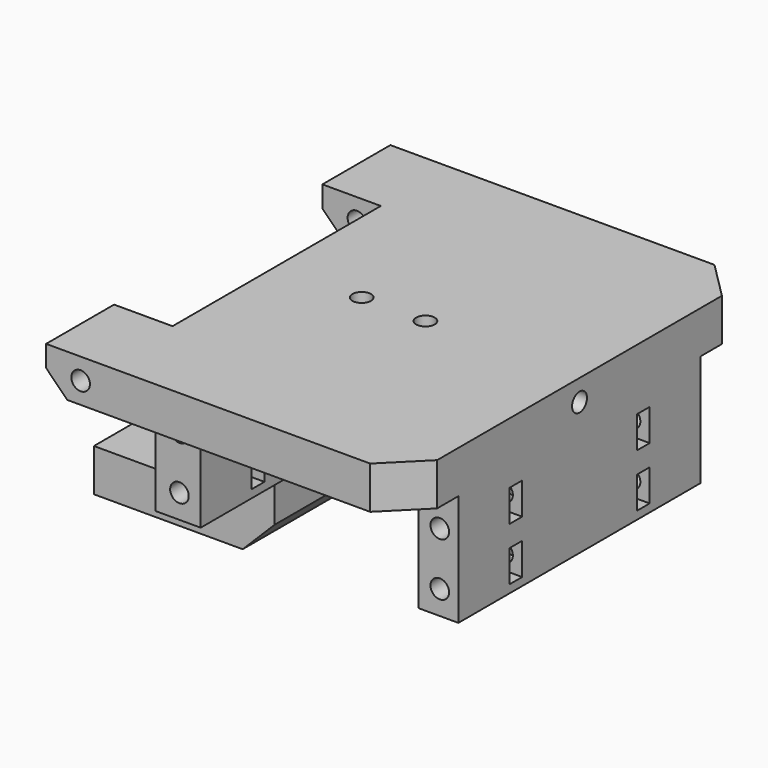
from build123d import *

# Parameters (mm, degrees)
BOX061_W                  = 15
BOX061_H                  = 100
BOX061_DEPTH              = 24
BOX060_W                  = 9
BOX060_H                  = 20
BOX060_DEPTH              = 38
CYLINDER059_R             = 1.75
CYLINDER059_DEPTH         = 36
CYLINDER058_R             = 1.75
CYLINDER058_DEPTH         = 36
PRISM_DEPTH               = 10
PRISM_ROLL_ANGLE          = 90.000052
PRISM_PITCH_ANGLE         = 59.999967
PRISM_PLACEMENT_ANGLE     = 90.000052
CYLINDER032_R             = 1.75
CYLINDER032_DEPTH         = 30
CYLINDER032_PITCH_ANGLE   = 90
CYLINDER030_R             = 1.75
CYLINDER030_DEPTH         = 24.5
CYLINDER030_PITCH_ANGLE   = 90
CYLINDER031_R             = 3
CYLINDER031_DEPTH         = 21.5
CYLINDER031_PITCH_ANGLE   = 90
FUSION027_PITCH_ANGLE     = -90
FUSION027_PLACEMENT_ANGLE = -180
FUSION024_PITCH_ANGLE     = -90
FUSION024_PLACEMENT_ANGLE = -180
FUSION025_PITCH_ANGLE     = -90
FUSION025_PLACEMENT_ANGLE = -180
BOX029_W                  = 3
BOX029_H                  = 74
BOX029_DEPTH              = 6
BOX029_PITCH_ANGLE        = -90
BOX029_PLACEMENT_ANGLE    = -180
BOX030_W                  = 3
BOX030_H                  = 74
BOX030_DEPTH              = 6
BOX030_PITCH_ANGLE        = -90
BOX030_PLACEMENT_ANGLE    = -180
FUSION026_PITCH_ANGLE     = -90
FUSION026_PLACEMENT_ANGLE = -180
FUSION028_ROLL_ANGLE      = -90
FUSION028_PLACEMENT_ANGLE = 90
BOX014_W                  = 34
BOX014_H                  = 21
BOX014_DEPTH              = 8
BOX015_W                  = 8
BOX015_H                  = 21
BOX015_DEPTH              = 42
CYLINDER025_R             = 1.75
CYLINDER025_DEPTH         = 100
CYLINDER025_ROLL_ANGLE    = -90
CYLINDER028_R             = 1.75
CYLINDER028_DEPTH         = 24.5
CYLINDER028_PITCH_ANGLE   = 90
CYLINDER029_R             = 3
CYLINDER029_DEPTH         = 21.5
CYLINDER029_PITCH_ANGLE   = 90
FUSION018_PITCH_ANGLE     = -90
FUSION018_PLACEMENT_ANGLE = -180
BOX024_W                  = 3
BOX024_H                  = 60
BOX024_DEPTH              = 6
BOX024_PITCH_ANGLE        = -90
BOX024_PLACEMENT_ANGLE    = -180
BOX025_W                  = 3
BOX025_H                  = 60
BOX025_DEPTH              = 6
BOX025_PITCH_ANGLE        = -90
BOX025_PLACEMENT_ANGLE    = -180
BOX022_W                  = 37
BOX022_H                  = 41
BOX022_DEPTH              = 25
BOX022_PITCH_ANGLE        = -90
BOX022_PLACEMENT_ANGLE    = -180
FUSION015_PITCH_ANGLE     = -90
FUSION015_PLACEMENT_ANGLE = -180
FUSION016_PITCH_ANGLE     = -90
FUSION016_PLACEMENT_ANGLE = -180
FUSION017_PITCH_ANGLE     = -90
FUSION017_PLACEMENT_ANGLE = -180
FUSION022_PITCH_ANGLE     = 90
FUSION022_PLACEMENT_ANGLE = 90
BOX059_W                  = 72
BOX059_H                  = 21
BOX059_DEPTH              = 24
BOX012_W                  = 16
BOX012_H                  = 49
BOX012_DEPTH              = 30
BOX011_W                  = 68
BOX011_H                  = 81
BOX011_DEPTH              = 29
CHAMFER007_SIZE           = 7
CHAMFER008_SIZE           = 6
CHAMFER011_SIZE           = 4


with BuildPart() as cube064:
    # Box061 → Box061 (new body)
    with BuildSketch(Plane(origin=(-51, -50, -30), x_dir=(1, 0, 0), z_dir=(0, 0, 1))):
        with Locations((7.5, 50)):
            Rectangle(BOX061_W, BOX061_H)
    extrude(amount=BOX061_DEPTH)


with BuildPart() as cube063:
    # Box060 → Box060 (new body)
    with BuildSketch(Plane(origin=(7, -10, -40), x_dir=(1, 0, 0), z_dir=(0, 0, 1))):
        with Locations((4.5, 10)):
            Rectangle(BOX060_W, BOX060_H)
    extrude(amount=BOX060_DEPTH)


with BuildPart() as cylinder154:
    # Cylinder059 → Cylinder059 (new body)
    with BuildSketch(Plane(origin=(-8, 0, -13), x_dir=(1, 0, 0), z_dir=(0, 0, 1))):
        Circle(CYLINDER059_R)
    extrude(amount=CYLINDER059_DEPTH)


with BuildPart() as fusion054:
    # Cylinder058 → Cylinder058 (new body)
    with BuildSketch(Plane(origin=(-20, 0, -13), x_dir=(1, 0, 0), z_dir=(0, 0, 1))):
        Circle(CYLINDER058_R)
    extrude(amount=CYLINDER058_DEPTH)

    # Fusion054: union Cylinder154
    add(cylinder154.part)


with BuildPart() as prism:
    # Prism → Prism (new body)
    with BuildSketch(Plane.XY):
        Polygon((3.3, 0), (1.65, 2.857884), (-1.65, 2.857884), (-3.3, 0), (-1.65, -2.857884), (1.65, -2.857884), align=None)
    extrude(amount=PRISM_DEPTH)


with BuildPart() as prism_1:
    # Prism roll: moved
    add(prism.part.rotate(Axis((0, 0, 0), (1, 0, 0)), PRISM_ROLL_ANGLE))


with BuildPart() as prism_2:
    # Prism pitch: moved
    add(prism_1.part.rotate(Axis((0, 0, 0), (0, 1, 0)), PRISM_PITCH_ANGLE))


with BuildPart() as prism_3:
    # Prism placement: moved
    add(prism_2.part.moved(Location((8, 0, -2))).rotate(Axis((8, 0, -2), (0, 0, 1)), PRISM_PLACEMENT_ANGLE))


with BuildPart() as cylinder147:
    # Cylinder032 → Cylinder032 (new body)
    with BuildSketch(Plane.XY):
        Circle(CYLINDER032_R)
    extrude(amount=CYLINDER032_DEPTH)


with BuildPart() as cylinder147_1:
    # Cylinder032 pitch: moved
    add(cylinder147.part.rotate(Axis((0, 0, 0), (0, 1, 0)), CYLINDER032_PITCH_ANGLE))


with BuildPart() as cylinder147_2:
    # Cylinder032 placement: moved
    add(cylinder147_1.part.moved(Location((10, 0, -2))))


with BuildPart() as joint_d014:
    # Cylinder030 → Cylinder030 (new body)
    with BuildSketch(Plane.XY):
        Circle(CYLINDER030_R)
    extrude(amount=CYLINDER030_DEPTH)


with BuildPart() as joint_d014_1:
    # Cylinder030 pitch: moved
    add(joint_d014.part.rotate(Axis((0, 0, 0), (0, 1, 0)), CYLINDER030_PITCH_ANGLE))


with BuildPart() as joint_d014_2:
    # Cylinder030 placement: moved
    add(joint_d014_1.part.moved(Location((16, -24.5, 7))))


with BuildPart() as joint_d015:
    # Cylinder031 → Cylinder031 (new body)
    with BuildSketch(Plane.XY):
        Circle(CYLINDER031_R)
    extrude(amount=CYLINDER031_DEPTH)


with BuildPart() as joint_d015_1:
    # Cylinder031 pitch: moved
    add(joint_d015.part.rotate(Axis((0, 0, 0), (0, 1, 0)), CYLINDER031_PITCH_ANGLE))


with BuildPart() as joint_d015_2:
    # Cylinder031 placement: moved
    add(joint_d015_1.part.moved(Location((37, -24.5, 7))))


with BuildPart() as fusion027:
    # Fusion027 base: copy of Joint-D015
    add(joint_d015_2.part)

    # Fusion027: union Joint-D014
    add(joint_d014_2.part)


with BuildPart() as fusion027_1:
    # Fusion027 pitch: moved
    add(fusion027.part.rotate(Axis((0, 0, 0), (0, 1, 0)), FUSION027_PITCH_ANGLE))


with BuildPart() as fusion027_2:
    # Fusion027 placement: moved
    add(fusion027_1.part.moved(Location((-2, -39.5, 0))).rotate(Axis((-2, -39.5, 0), (0, 0, 1)), FUSION027_PLACEMENT_ANGLE))


with BuildPart() as fusion024:
    # Fusion024 base: copy of Joint-D015
    add(joint_d015_2.part)

    # Fusion024: union Joint-D014
    add(joint_d014_2.part)


with BuildPart() as fusion024_1:
    # Fusion024 pitch: moved
    add(fusion024.part.rotate(Axis((0, 0, 0), (0, 1, 0)), FUSION024_PITCH_ANGLE))


with BuildPart() as fusion024_2:
    # Fusion024 placement: moved
    add(fusion024_1.part.moved(Location((-12, 9.5, 0))).rotate(Axis((-12, 9.5, 0), (0, 0, 1)), FUSION024_PLACEMENT_ANGLE))


with BuildPart() as fusion025:
    # Fusion025 base: copy of Joint-D015
    add(joint_d015_2.part)

    # Fusion025: union Joint-D014
    add(joint_d014_2.part)


with BuildPart() as fusion025_1:
    # Fusion025 pitch: moved
    add(fusion025.part.rotate(Axis((0, 0, 0), (0, 1, 0)), FUSION025_PITCH_ANGLE))


with BuildPart() as fusion025_2:
    # Fusion025 placement: moved
    add(fusion025_1.part.moved(Location((-2, 9.5, 0))).rotate(Axis((-2, 9.5, 0), (0, 0, 1)), FUSION025_PLACEMENT_ANGLE))


with BuildPart() as cube047:
    # Box029 → Box029 (new body)
    with BuildSketch(Plane.XY):
        with Locations((1.5, 37)):
            Rectangle(BOX029_W, BOX029_H)
    extrude(amount=BOX029_DEPTH)


with BuildPart() as cube047_1:
    # Box029 pitch: moved
    add(cube047.part.rotate(Axis((0, 0, 0), (0, 1, 0)), BOX029_PITCH_ANGLE))


with BuildPart() as cube047_2:
    # Box029 placement: moved
    add(cube047_1.part.moved(Location((-8, 41.5, 18.5))).rotate(Axis((-8, 41.5, 18.5), (0, 0, 1)), BOX029_PLACEMENT_ANGLE))


with BuildPart() as cube048:
    # Box030 → Box030 (new body)
    with BuildSketch(Plane.XY):
        with Locations((1.5, 37)):
            Rectangle(BOX030_W, BOX030_H)
    extrude(amount=BOX030_DEPTH)


with BuildPart() as cube048_1:
    # Box030 pitch: moved
    add(cube048.part.rotate(Axis((0, 0, 0), (0, 1, 0)), BOX030_PITCH_ANGLE))


with BuildPart() as cube048_2:
    # Box030 placement: moved
    add(cube048_1.part.moved(Location((2, 41.5, 18.5))).rotate(Axis((2, 41.5, 18.5), (0, 0, 1)), BOX030_PLACEMENT_ANGLE))


with BuildPart() as fusion028:
    # Fusion026 base: copy of Joint-D015
    add(joint_d015_2.part)

    # Fusion026: union Joint-D014
    add(joint_d014_2.part)


with BuildPart() as fusion028_1:
    # Fusion026 pitch: moved
    add(fusion028.part.rotate(Axis((0, 0, 0), (0, 1, 0)), FUSION026_PITCH_ANGLE))


with BuildPart() as fusion028_2:
    # Fusion026 placement: moved
    add(fusion028_1.part.moved(Location((-12, -39.5, 0))).rotate(Axis((-12, -39.5, 0), (0, 0, 1)), FUSION026_PLACEMENT_ANGLE))

    # Fusion028: union Fusion027, Fusion024, Fusion025, Cube047, Cube048
    add(fusion027_2.part)
    add(fusion024_2.part)
    add(fusion025_2.part)
    add(cube047_2.part)
    add(cube048_2.part)


with BuildPart() as fusion028_3:
    # Fusion028 roll: moved
    add(fusion028_2.part.rotate(Axis((0, 0, 0), (1, 0, 0)), FUSION028_ROLL_ANGLE))


with BuildPart() as fusion028_4:
    # Fusion028 placement: moved
    add(fusion028_3.part.moved(Location((-30, 0, -2))).rotate(Axis((-30, 0, -2), (0, 0, 1)), FUSION028_PLACEMENT_ANGLE))


with BuildPart() as cube015:
    # Box014 → Box014 (new body)
    with BuildSketch(Plane(origin=(-62, -10.5, -40), x_dir=(1, 0, 0), z_dir=(0, 0, 1))):
        with Locations((17, 10.5)):
            Rectangle(BOX014_W, BOX014_H)
    extrude(amount=BOX014_DEPTH)


with BuildPart() as cube016:
    # Box015 → Box015 (new body)
    with BuildSketch(Plane(origin=(-36, -10.5, -40), x_dir=(1, 0, 0), z_dir=(0, 0, 1))):
        with Locations((4, 10.5)):
            Rectangle(BOX015_W, BOX015_H)
    extrude(amount=BOX015_DEPTH)


with BuildPart() as cylinder025:
    # Cylinder025 → Cylinder025 (new body)
    with BuildSketch(Plane.XY):
        Circle(CYLINDER025_R)
    extrude(amount=CYLINDER025_DEPTH)


with BuildPart() as cylinder025_1:
    # Cylinder025 roll: moved
    add(cylinder025.part.rotate(Axis((0, 0, 0), (1, 0, 0)), CYLINDER025_ROLL_ANGLE))


with BuildPart() as cylinder025_2:
    # Cylinder025 placement: moved
    add(cylinder025_1.part.moved(Location((-40.5, -50, -2))))


with BuildPart() as joint_d012:
    # Cylinder028 → Cylinder028 (new body)
    with BuildSketch(Plane.XY):
        Circle(CYLINDER028_R)
    extrude(amount=CYLINDER028_DEPTH)


with BuildPart() as joint_d012_1:
    # Cylinder028 pitch: moved
    add(joint_d012.part.rotate(Axis((0, 0, 0), (0, 1, 0)), CYLINDER028_PITCH_ANGLE))


with BuildPart() as joint_d012_2:
    # Cylinder028 placement: moved
    add(joint_d012_1.part.moved(Location((16, -24.5, 7))))


with BuildPart() as joint_d013:
    # Cylinder029 → Cylinder029 (new body)
    with BuildSketch(Plane.XY):
        Circle(CYLINDER029_R)
    extrude(amount=CYLINDER029_DEPTH)


with BuildPart() as joint_d013_1:
    # Cylinder029 pitch: moved
    add(joint_d013.part.rotate(Axis((0, 0, 0), (0, 1, 0)), CYLINDER029_PITCH_ANGLE))


with BuildPart() as joint_d013_2:
    # Cylinder029 placement: moved
    add(joint_d013_1.part.moved(Location((37, -24.5, 7))))


with BuildPart() as fusion018:
    # Fusion018 base: copy of Joint-D013
    add(joint_d013_2.part)

    # Fusion018: union Joint-D012
    add(joint_d012_2.part)


with BuildPart() as fusion018_1:
    # Fusion018 pitch: moved
    add(fusion018.part.rotate(Axis((0, 0, 0), (0, 1, 0)), FUSION018_PITCH_ANGLE))


with BuildPart() as fusion018_2:
    # Fusion018 placement: moved
    add(fusion018_1.part.moved(Location((-2, -39.5, 0))).rotate(Axis((-2, -39.5, 0), (0, 0, 1)), FUSION018_PLACEMENT_ANGLE))


with BuildPart() as cube043:
    # Box024 → Box024 (new body)
    with BuildSketch(Plane.XY):
        with Locations((1.5, 30)):
            Rectangle(BOX024_W, BOX024_H)
    extrude(amount=BOX024_DEPTH)


with BuildPart() as cube043_1:
    # Box024 pitch: moved
    add(cube043.part.rotate(Axis((0, 0, 0), (0, 1, 0)), BOX024_PITCH_ANGLE))


with BuildPart() as cube043_2:
    # Box024 placement: moved
    add(cube043_1.part.moved(Location((-8, 39.5, 18.5))).rotate(Axis((-8, 39.5, 18.5), (0, 0, 1)), BOX024_PLACEMENT_ANGLE))


with BuildPart() as cube044:
    # Box025 → Box025 (new body)
    with BuildSketch(Plane.XY):
        with Locations((1.5, 30)):
            Rectangle(BOX025_W, BOX025_H)
    extrude(amount=BOX025_DEPTH)


with BuildPart() as cube044_1:
    # Box025 pitch: moved
    add(cube044.part.rotate(Axis((0, 0, 0), (0, 1, 0)), BOX025_PITCH_ANGLE))


with BuildPart() as cube044_2:
    # Box025 placement: moved
    add(cube044_1.part.moved(Location((2, 39.5, 18.5))).rotate(Axis((2, 39.5, 18.5), (0, 0, 1)), BOX025_PLACEMENT_ANGLE))


with BuildPart() as cube042:
    # Box022 → Box022 (new body)
    with BuildSketch(Plane.XY):
        with Locations((18.5, 20.5)):
            Rectangle(BOX022_W, BOX022_H)
    extrude(amount=BOX022_DEPTH)


with BuildPart() as cube042_1:
    # Box022 pitch: moved
    add(cube042.part.rotate(Axis((0, 0, 0), (0, 1, 0)), BOX022_PITCH_ANGLE))


with BuildPart() as cube042_2:
    # Box022 placement: moved
    add(cube042_1.part.moved(Location((-10, 30, -1))).rotate(Axis((-10, 30, -1), (0, 0, 1)), BOX022_PLACEMENT_ANGLE))


with BuildPart() as fusion015:
    # Fusion015 base: copy of Joint-D013
    add(joint_d013_2.part)

    # Fusion015: union Joint-D012
    add(joint_d012_2.part)


with BuildPart() as fusion015_1:
    # Fusion015 pitch: moved
    add(fusion015.part.rotate(Axis((0, 0, 0), (0, 1, 0)), FUSION015_PITCH_ANGLE))


with BuildPart() as fusion015_2:
    # Fusion015 placement: moved
    add(fusion015_1.part.moved(Location((-12, 9.5, 0))).rotate(Axis((-12, 9.5, 0), (0, 0, 1)), FUSION015_PLACEMENT_ANGLE))


with BuildPart() as fusion016:
    # Fusion016 base: copy of Joint-D013
    add(joint_d013_2.part)

    # Fusion016: union Joint-D012
    add(joint_d012_2.part)


with BuildPart() as fusion016_1:
    # Fusion016 pitch: moved
    add(fusion016.part.rotate(Axis((0, 0, 0), (0, 1, 0)), FUSION016_PITCH_ANGLE))


with BuildPart() as fusion016_2:
    # Fusion016 placement: moved
    add(fusion016_1.part.moved(Location((-2, 9.5, 0))).rotate(Axis((-2, 9.5, 0), (0, 0, 1)), FUSION016_PLACEMENT_ANGLE))


with BuildPart() as fusion022:
    # Fusion017 base: copy of Joint-D013
    add(joint_d013_2.part)

    # Fusion017: union Joint-D012
    add(joint_d012_2.part)


with BuildPart() as fusion022_1:
    # Fusion017 pitch: moved
    add(fusion022.part.rotate(Axis((0, 0, 0), (0, 1, 0)), FUSION017_PITCH_ANGLE))


with BuildPart() as fusion022_2:
    # Fusion017 placement: moved
    add(fusion022_1.part.moved(Location((-12, -39.5, 0))).rotate(Axis((-12, -39.5, 0), (0, 0, 1)), FUSION017_PLACEMENT_ANGLE))

    # Fusion022: union Fusion018, Cube043, Cube044, Cube042, Fusion015, Fusion016
    add(fusion018_2.part)
    add(cube043_2.part)
    add(cube044_2.part)
    add(cube042_2.part)
    add(fusion015_2.part)
    add(fusion016_2.part)


with BuildPart() as fusion022_3:
    # Fusion022 pitch: moved
    add(fusion022_2.part.rotate(Axis((0, 0, 0), (0, 1, 0)), FUSION022_PITCH_ANGLE))


with BuildPart() as fusion022_4:
    # Fusion022 placement: moved
    add(fusion022_3.part.moved(Location((2.5, -5, -14))).rotate(Axis((2.5, -5, -14), (0, 0, 1)), FUSION022_PLACEMENT_ANGLE))


with BuildPart() as part_mirroring014:
    # Part__Mirroring014: instance of Fusion022
    add(fusion022_4.part.mirror(Plane(origin=(0, 0, 0), x_dir=(1, 0, 0), z_dir=(0, 1, 0))))


with BuildPart() as fusion023:
    # Fusion023 base: copy of Fusion022
    add(fusion022_4.part)

    # Fusion023: union Part__Mirroring014
    add(part_mirroring014.part)


with BuildPart() as fusion023_1:
    # Fusion023 placement: moved
    add(fusion023.part.moved(Location((0, 0, -3.5))))


with BuildPart() as cube062:
    # Box059 → Box059 (new body)
    with BuildSketch(Plane(origin=(-42, 28.5, -30), x_dir=(1, 0, 0), z_dir=(0, 0, 1))):
        with Locations((36, 10.5)):
            Rectangle(BOX059_W, BOX059_H)
    extrude(amount=BOX059_DEPTH)


with BuildPart() as fusion052:
    # Part__Mirroring020: instance of Cube062
    add(cube062.part.mirror(Plane(origin=(0, 0, 0), x_dir=(1, 0, 0), z_dir=(0, 1, 0))))

    # Fusion052: union Cube062
    add(cube062.part)


with BuildPart() as cube013:
    # Box012 → Box012 (new body)
    with BuildSketch(Plane(origin=(-52, -24.5, -25), x_dir=(1, 0, 0), z_dir=(0, 0, 1))):
        with Locations((8, 24.5)):
            Rectangle(BOX012_W, BOX012_H)
    extrude(amount=BOX012_DEPTH)


with BuildPart() as chamfer011:
    # Box011 → Box011 (new body)
    with BuildSketch(Plane(origin=(-47, -40.5, -27), x_dir=(1, 0, 0), z_dir=(0, 0, 1))):
        with Locations((34, 40.5)):
            Rectangle(BOX011_W, BOX011_H)
    extrude(amount=BOX011_DEPTH)

    # Cut074: cut Cube013
    add(cube013.part, mode=Mode.SUBTRACT)

    # Cut075: cut Fusion052
    add(fusion052.part, mode=Mode.SUBTRACT)

    # Cut076: cut Fusion023
    add(fusion023_1.part, mode=Mode.SUBTRACT)

    # Cut077: cut Cylinder025
    add(cylinder025_2.part, mode=Mode.SUBTRACT)

    # Fusion053: union Cube015, Cube016
    add(cube015.part)
    add(cube016.part)

    # Cut078: cut Fusion028
    add(fusion028_4.part, mode=Mode.SUBTRACT)

    # Cut079: cut Cylinder147
    add(cylinder147_2.part, mode=Mode.SUBTRACT)

    # Cut080: cut Prism
    add(prism_3.part, mode=Mode.SUBTRACT)

    # Chamfer007
    chamfer007_edges = [chamfer011.edges().sort_by_distance(p)[0] for p in [
        (21, 40.5, -2),
        (21, -40.5, -2),
    ]]
    chamfer(chamfer007_edges, length=CHAMFER007_SIZE)

    # Cut081: cut Fusion054
    add(fusion054.part, mode=Mode.SUBTRACT)

    # Chamfer008
    chamfer008_edges = [chamfer011.edges().sort_by_distance(p)[0] for p in [
        (-28, 0, -40),
    ]]
    chamfer(chamfer008_edges, length=CHAMFER008_SIZE)

    # Cut082: cut Cube063
    add(cube063.part, mode=Mode.SUBTRACT)

    # Cut085: cut Cube064
    add(cube064.part, mode=Mode.SUBTRACT)

    # Chamfer011
    chamfer011_edges = [chamfer011.edges().sort_by_distance(p)[0] for p in [
        (-47, -32.5, -6),
        (-47, 32.5, -6),
    ]]
    chamfer(chamfer011_edges, length=CHAMFER011_SIZE)


solid = chamfer011.part
